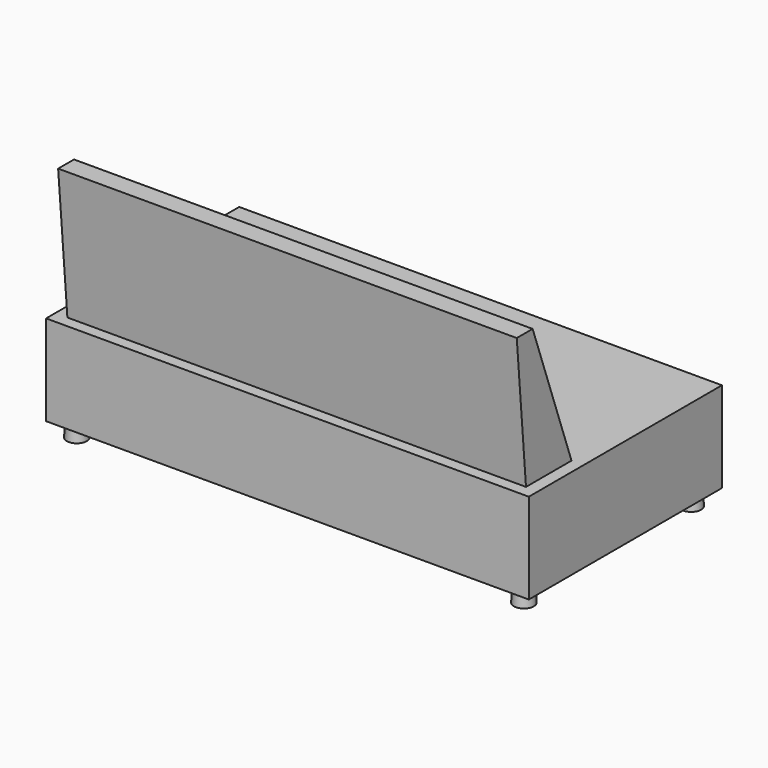
from build123d import *

# Parameters (mm, degrees)
F0_W     = 1600
F0_H     = 800
F1_DEPTH = 300
F2_R     = 30.5098573856
F3_DEPTH = 50
F3_TAPER = -3
F5_DEPTH = 760


with BuildPart() as f1:
    # F0 (on Top) → F1 (new body)
    with BuildSketch(Plane.XY):
        Rectangle(F0_W, F0_H)
    extrude(amount=F1_DEPTH)

    # F2 (on face) → F3 (join)
    with BuildSketch(Plane(origin=(0, 0, 0), x_dir=(1, 0, 0), z_dir=(0, 0, -1))):
        with Locations((-740.8549189568, -346.6182351112)):
            Circle(F2_R)
        with Locations((740.8549189568, -346.6182351112)):
            Circle(F2_R)
        with Locations((740.8549189568, 346.6182351112)):
            Circle(F2_R)
        with Locations((-740.8549189568, 346.6182351112)):
            Circle(F2_R)
    extrude(amount=F3_DEPTH, taper=F3_TAPER)

    # F4 (on Right) → F5 (join, symmetric)
    with BuildSketch(Plane.YZ):
        Polygon((-355.8277244632, 230.5950983165), (-157.0006990349, 254.912089853), (-334.2544257721, 750), (-400, 750), align=None)
    extrude(amount=F5_DEPTH, both=True)


solid = f1.part
